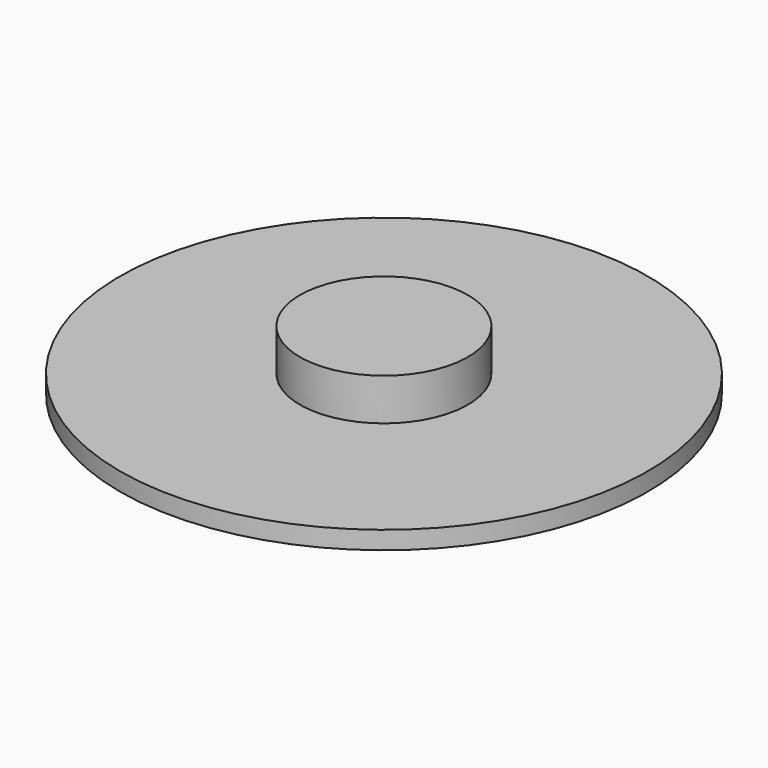
from build123d import *


with BuildPart() as f1:
    # F0 (on Right) → F1 (revolve)
    with BuildSketch(Plane.YZ):
        with BuildLine():
            Line((3.5, 2.5), (0, 2.5))
            Line((0, 2.5), (0, 0.375))
            ThreePointArc((0, 0.375), (5.504859, 0.330021), (11, 0))
            Line((11, 0), (11, 0.75))
            Line((11, 0.75), (3.5, 0.75))
            Line((3.5, 0.75), (3.5, 2.5))
        make_face()
    revolve(axis=Axis((0, 0, 1.4375), (0, 0, -1)))


solid = f1.part
